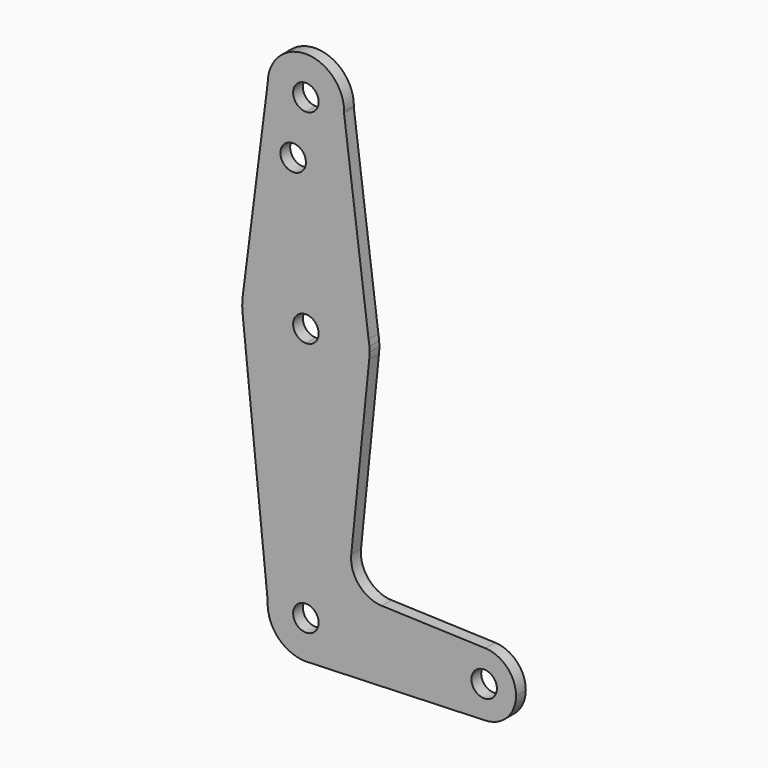
from build123d import *

# Parameters (mm, degrees)
F0_R     = 3.175
F1_DEPTH = 3.048


with BuildPart() as f1:
    # F0 (on Front) → F1 (new body)
    with BuildSketch(Plane.XZ):
        with BuildLine():
            ThreePointArc((15.8245793089, 8.998934538), (15.7458672873, 9.7554046414), (15.6310143303, 10.5072366692))
            Line((15.6310143303, 10.5072366692), (15.8245793089, 8.998934538))
        make_face()
        with BuildLine():
            Line((-15.7727029444, 5.9353936208), (-15.8099191277, 6.2986946381))
            ThreePointArc((-15.8099191277, 6.2986946381), (-15.792355782, 6.1169371067), (-15.7727029444, 5.9353936208))
        make_face()
        with BuildLine():
            Line((0.6773435479, -65.2661959616), (0, -65.2903101756))
            ThreePointArc((0, -65.2903101756), (0.3388863295, -65.2842797131), (0.6773435479, -65.2661959616))
        make_face()
        with BuildLine():
            ThreePointArc((9.517143497, 58.1479022105), (6.597024821, 51.6641084435), (0, 49.0096898244))
            Line((0, 49.0096898244), (0, 44.2598898244))
            Line((0, 44.2598898244), (0, 23.6096898244))
            ThreePointArc((0, 23.6096898244), (10.1980744221, 19.9008273824), (15.6310143303, 10.5072366692))
            Line((15.6310143303, 10.5072366692), (9.517143497, 58.1479022105))
        make_face()
        with BuildLine():
            ThreePointArc((0, -8.1403101756), (-10.5700472508, -4.1097065771), (-15.7727029444, 5.9353936208))
            Line((-15.7727029444, 5.9353936208), (-9.5088832836, -55.2114476486))
            ThreePointArc((-9.5088832836, -55.2114476486), (-6.5364395671, -48.8370648866), (0, -46.2403101756))
            Line((0, -46.2403101756), (0, -8.1403101756))
        make_face()
        with BuildLine():
            Line((36.5125, -55.7653101756), (9.525, -55.7653101756))
            ThreePointArc((9.525, -55.7653101756), (6.9705567315, -62.2566092639), (0.6773435479, -65.2661959616))
            Line((0.6773435479, -65.2661959616), (44.7324052746, -63.6977847902))
            ThreePointArc((44.7324052746, -63.6977847902), (38.9380895153, -61.4769429596), (36.5125, -55.7653101756))
        make_face()
        with BuildLine():
            ThreePointArc((44.7324052746, -47.8328355611), (38.9380895153, -50.0536773917), (36.5125, -55.7653101756))
            ThreePointArc((36.5125, -55.7653101756), (38.9380895153, -61.4769429596), (44.7324052746, -63.6977847902))
            ThreePointArc((44.7324052746, -63.6977847902), (50.1616327839, -61.2772206604), (52.3875, -55.7653101756))
            ThreePointArc((52.3875, -55.7653101756), (50.1616327839, -50.2533996909), (44.7324052746, -47.8328355611))
        make_face()
        with BuildLine():
            ThreePointArc((47.625, -55.7653101756), (44.45, -58.9403101756), (41.275, -55.7653101756))
            ThreePointArc((41.275, -55.7653101756), (44.45, -52.5903101756), (47.625, -55.7653101756))
        make_face(mode=Mode.SUBTRACT)
        with BuildLine():
            Line((0, 44.2598898244), (0, 49.0096898244))
            ThreePointArc((0, 49.0096898244), (-6.7429579849, 51.8072725923), (-9.5249746441, 58.5566677533))
            Line((-9.5249746441, 58.5566677533), (-15.7475693232, 9.7420974588))
            ThreePointArc((-15.7475693232, 9.7420974588), (-10.4916163865, 19.6486148954), (0, 23.6096898244))
            Line((0, 23.6096898244), (0, 44.2598898244))
        make_face()
        with Locations((-3.175, 44.2598898244)):
            Circle(F0_R, mode=Mode.SUBTRACT)
        with BuildLine():
            ThreePointArc((15.6310143303, 10.5072366692), (10.1980744221, 19.9008273824), (0, 23.6096898244))
            Line((0, 23.6096898244), (0, 10.9096898244))
            ThreePointArc((0, 10.9096898244), (2.2450640303, 9.9797538546), (3.175, 7.7346898244))
            ThreePointArc((3.175, 7.7346898244), (2.2450640303, 5.4896257941), (0, 4.5596898244))
            Line((0, 4.5596898244), (0, -8.1403101756))
            ThreePointArc((0, -8.1403101756), (10.644756084, -4.0426100747), (15.7942028036, 6.1350702449))
            ThreePointArc((15.7942028036, 6.1350702449), (15.8547878338, 6.9338604128), (15.875, 7.7346898244))
            ThreePointArc((15.875, 7.7346898244), (15.8623898188, 8.3673147018), (15.8245793089, 8.998934538))
            Line((15.8245793089, 8.998934538), (15.6310143303, 10.5072366692))
        make_face()
        with BuildLine():
            Line((0, 10.9096898244), (0, 23.6096898244))
            ThreePointArc((0, 23.6096898244), (-10.4916163865, 19.6486148954), (-15.7475693232, 9.7420974588))
            ThreePointArc((-15.7475693232, 9.7420974588), (-15.8723982145, 8.0220918442), (-15.8099191277, 6.2986946381))
            Line((-15.8099191277, 6.2986946381), (-15.7727029444, 5.9353936208))
            ThreePointArc((-15.7727029444, 5.9353936208), (-10.5700472508, -4.1097065771), (0, -8.1403101756))
            Line((0, -8.1403101756), (0, 4.5596898244))
            ThreePointArc((0, 4.5596898244), (-3.175, 7.7346898244), (0, 10.9096898244))
        make_face()
        with BuildLine():
            ThreePointArc((15.7942028036, 6.1350702449), (10.644756084, -4.0426100747), (0, -8.1403101756))
            Line((0, -8.1403101756), (0, -46.2403101756))
            ThreePointArc((0, -46.2403101756), (6.7351920908, -49.0301180848), (9.525, -55.7653101756))
            Line((9.525, -55.7653101756), (36.5125, -55.7653101756))
            ThreePointArc((36.5125, -55.7653101756), (38.9380895153, -50.0536773917), (44.7324052746, -47.8328355611))
            Line((44.7324052746, -47.8328355611), (18.9341027877, -46.9143861426))
            ThreePointArc((18.9341027877, -46.9143861426), (13.2249738114, -44.1943303451), (11.3072231466, -38.1681300832))
            Line((11.3072231466, -38.1681300832), (15.7942028036, 6.1350702449))
        make_face()
        with BuildLine():
            ThreePointArc((0, -46.2403101756), (-6.5364395671, -48.8370648866), (-9.5088832836, -55.2114476486))
            ThreePointArc((-9.5088832836, -55.2114476486), (-6.928245289, -62.3017497428), (0, -65.2903101756))
            Line((0, -65.2903101756), (0.6773435479, -65.2661959616))
            ThreePointArc((0.6773435479, -65.2661959616), (6.9705567315, -62.2566092639), (9.525, -55.7653101756))
            Line((9.525, -55.7653101756), (3.175, -55.7653101756))
            ThreePointArc((3.175, -55.7653101756), (-2.2450640303, -58.0103742059), (0, -52.5903101756))
            Line((0, -52.5903101756), (0, -46.2403101756))
        make_face()
        with BuildLine():
            ThreePointArc((-9.5249746441, 58.5566677533), (-6.7429579849, 51.8072725923), (0, 49.0096898244))
            ThreePointArc((0, 49.0096898244), (6.597024821, 51.6641084435), (9.517143497, 58.1479022105))
            ThreePointArc((9.517143497, 58.1479022105), (9.5230356717, 58.3412561259), (9.525, 58.5346898244))
            ThreePointArc((9.525, 58.5346898244), (0.0109889718, 68.0596834854), (-9.5249746441, 58.5566677533))
        make_face()
        with BuildLine():
            ThreePointArc((3.175, 58.5346898244), (2.2450640303, 56.2896257941), (0, 55.3596898244))
            ThreePointArc((0, 55.3596898244), (-2.2450640303, 60.7797538546), (3.175, 58.5346898244))
        make_face(mode=Mode.SUBTRACT)
        with BuildLine():
            ThreePointArc((9.525, -55.7653101756), (6.7351920908, -49.0301180848), (0, -46.2403101756))
            Line((0, -46.2403101756), (0, -52.5903101756))
            ThreePointArc((0, -52.5903101756), (2.2450640303, -53.5202461454), (3.175, -55.7653101756))
            Line((3.175, -55.7653101756), (9.525, -55.7653101756))
        make_face()
    extrude(amount=F1_DEPTH)


solid = f1.part
